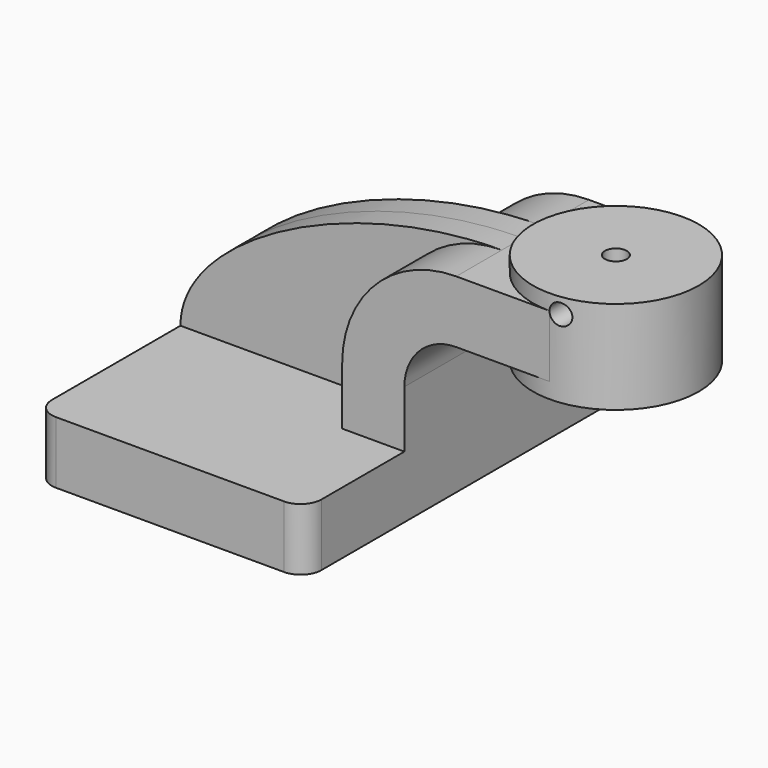
from build123d import *

# Parameters (mm, degrees)
F1_DEPTH = 63.5
F0_W     = 25.4
F0_H     = 19.05
F2_DEPTH = 25.4
F3_DEPTH = 7.9375
F5_R     = 6.35
F7_D     = 6.7564
F7_DEPTH = 12.7
F7_TIP   = 2.0298273432
F9_D     = 6.35


with BuildPart() as f1:
    # F0 (on Front) → F1 (new body, symmetric)
    with BuildSketch(Plane.XZ):
        Polygon((41.275, -9.525), (41.275, 9.525), (22.225, 9.525), (-41.275, 9.525), (-41.275, -9.525), align=None)
    extrude(amount=F1_DEPTH, both=True)

    # F0 (on Front) → F2 (join, symmetric)
    with BuildSketch(Plane.XZ):
        with BuildLine():
            Line((22.225, 9.525), (41.275, 9.525))
            Line((41.275, 9.525), (41.275, 27.0002))
            ThreePointArc((41.275, 27.0002), (45.9246798487, 38.2255201513), (57.15, 42.8752))
            Line((57.15, 42.8752), (60.325, 42.8752))
            Line((60.325, 42.8752), (60.325, 61.9252))
            Line((60.325, 61.9252), (57.15, 61.9252))
            ThreePointArc((57.15, 61.9252), (32.4542956671, 51.6959043329), (22.225, 27.0002))
            Line((22.225, 27.0002), (22.225, 9.525))
        make_face()
        with Locations((73.025, 52.4002)):
            Rectangle(F0_W, F0_H)
    extrude(amount=F2_DEPTH, both=True)

    # F0 (on Front) → F3 (join, symmetric)
    with BuildSketch(Plane.XZ):
        with BuildLine():
            Line((-41.275, 9.525), (22.225, 9.525))
            Line((22.225, 9.525), (22.225, 27.0002))
            ThreePointArc((22.225, 27.0002), (32.4542956671, 51.6959043329), (57.15, 61.9252))
            add(Edge.make_bspline(
                [(-41.275, 9.525), (-41.275, 34.8479822278), (9.3457987532, 61.9252), (57.15, 61.9252)],
                knots=[0, 0, 0, 0, 111.5045361635, 111.5045361635, 111.5045361635, 111.5045361635], degree=3))
        make_face()
    extrude(amount=F3_DEPTH, both=True)

    # F0 (on Front) → F4 (revolve)
    with BuildSketch(Plane.XZ):
        Polygon((85.725, 61.9252), (85.725, 42.8752), (85.725, 38.1), (111.125, 38.1), (111.125, 66.675), (85.725, 66.675), align=None)
    revolve(axis=Axis((85.725, 0, 52.3875), (0, 0, 1)))

    # F5
    f5_edges = [f1.edges().sort_by_distance(p)[0] for p in [
        (41.275, -63.5, 0),
        (-41.275, -63.5, 0),
        (41.275, 63.5, 0),
        (-41.275, 63.5, 0),
    ]]
    fillet(f5_edges, radius=F5_R)

    # F7
    with Locations(Plane.XY.offset(66.675)):
        with Locations((85.725, 0)):
            Hole(F7_D / 2, depth=F7_DEPTH)
            with Locations((0, 0, -(F7_DEPTH + F7_TIP / 2))):  # 118° drill point
                Cone(0, F7_D / 2, F7_TIP, mode=Mode.SUBTRACT)

    # F9 (through all)
    with Locations(Plane.XZ.offset(25.4)):
        with Locations((88.9, 61.9252)):
            Hole(F9_D / 2)


solid = f1.part
